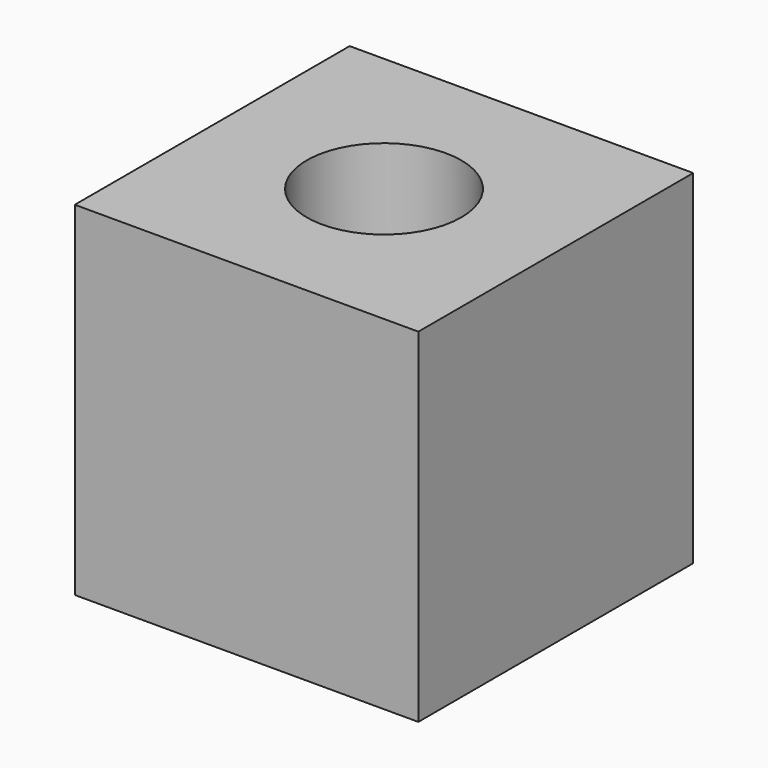
from build123d import *

# Parameters (mm, degrees)
F0_W     = 20
F0_H     = 20
F0_R     = 2.25
F1_DEPTH = 20
F2_R     = 4.5
F2_R_2   = 2.25
F3_DEPTH = 17


with BuildPart() as f1:
    # F0 (on Top) → F1 (new body)
    with BuildSketch(Plane.XY):
        Rectangle(F0_W, F0_H)
        Circle(F0_R, mode=Mode.SUBTRACT)
    extrude(amount=F1_DEPTH)

    # F2 (on face) → F3 (cut)
    with BuildSketch(Plane.XY.offset(20)):
        Circle(F2_R)
        Circle(F2_R_2, mode=Mode.SUBTRACT)
    extrude(amount=-F3_DEPTH, mode=Mode.SUBTRACT)


solid = f1.part
